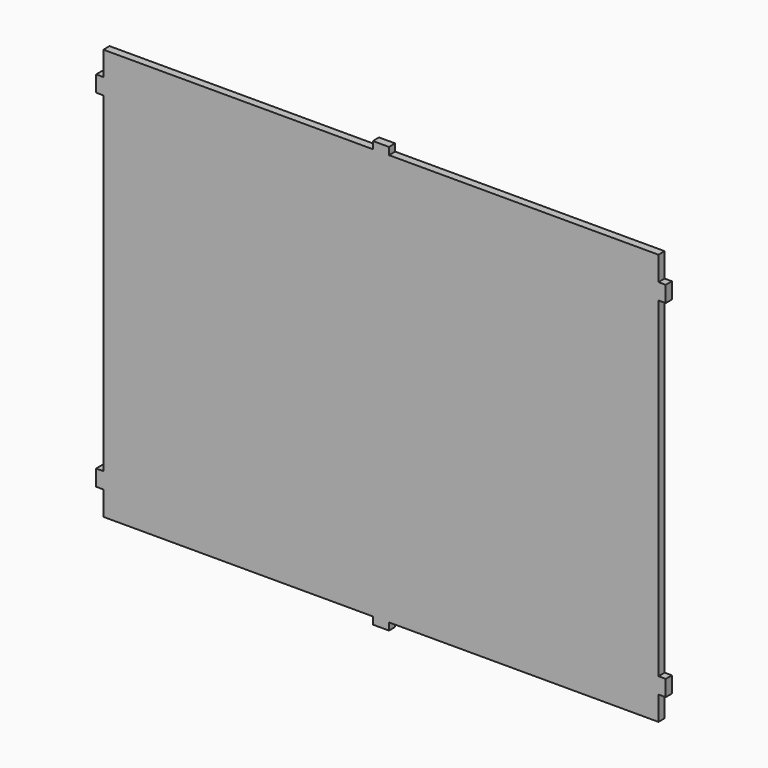
from build123d import *

# Parameters (mm, degrees)
F0_W     = 5
F0_H     = 4.5
F1_DEPTH = 4.8


with BuildPart() as f1:
    # F0 (on Front) → F1 (new body)
    with BuildSketch(Plane.XZ):
        Polygon((-167.476225, 0), (0, 0), (0, 15), (4.5, 15), (4.5, 25), (0, 25), (0, 127.79011), (-344.95245, 127.79011), (-344.95245, 25), (-349.45245, 25), (-349.45245, 15), (-344.95245, 15), (-344.95245, 0), (-177.476225, 0), (-172.476225, 0), align=None)
        with Locations((-169.976225, -2.25)):
            Rectangle(F0_W, F0_H)
        with Locations((-174.976225, -2.25)):
            Rectangle(F0_W, F0_H)
        Polygon((-344.95245, 127.79011), (0, 127.79011), (0, 230.58022), (4.5, 230.58022), (4.5, 240.58022), (0, 240.58022), (0, 255.58022), (-167.476225, 255.58022), (-177.476225, 255.58022), (-344.95245, 255.58022), (-344.95245, 240.58022), (-349.45245, 240.58022), (-349.45245, 230.58022), (-344.95245, 230.58022), align=None)
        Polygon((-177.476225, 255.58022), (-167.476225, 255.58022), (-167.476225, 260.08022), (-172.476225, 260.08022), (-177.476225, 260.08022), align=None)
    extrude(amount=F1_DEPTH)


solid = f1.part
